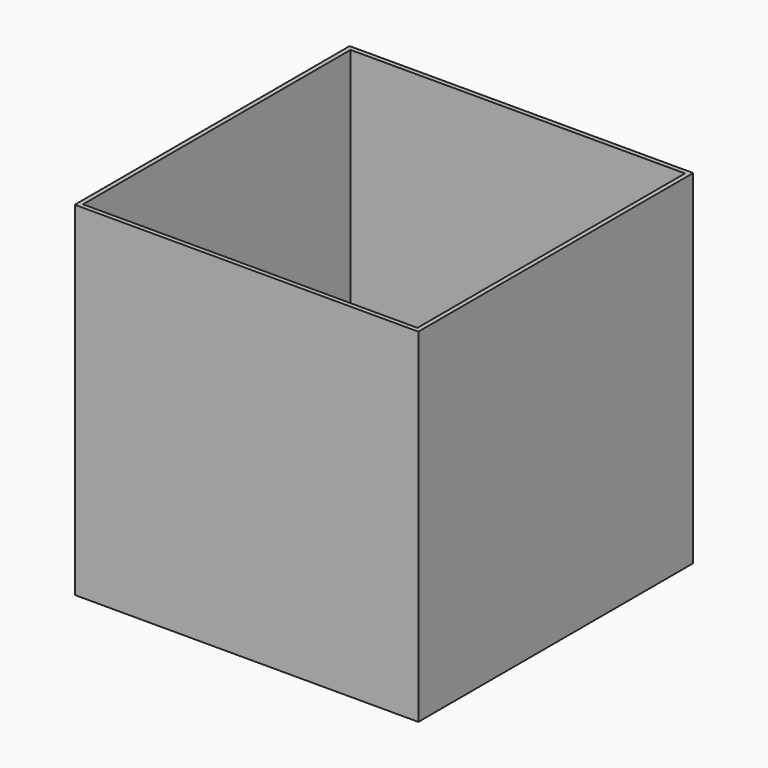
from build123d import *

# Parameters (mm, degrees)
SKETCH_W     = 30
SKETCH_H     = 30
SKETCH_W_2   = 29.2
SKETCH_H_2   = 29.2
PAD_DEPTH    = 30
SKETCH001_W  = 30
SKETCH001_H  = 30
PAD001_DEPTH = 0.6


with BuildPart() as part:
    # Sketch → Pad (new body)
    with BuildSketch(Plane.XY):
        Rectangle(SKETCH_W, SKETCH_H)
        Rectangle(SKETCH_W_2, SKETCH_H_2, mode=Mode.SUBTRACT)
    extrude(amount=PAD_DEPTH)

    # Sketch001 (on Face9 of Pad) → Pad001 (join)
    with BuildSketch(Plane(origin=(0, 0, 0), x_dir=(1, 0, 0), z_dir=(0, 0, -1))):
        Rectangle(SKETCH001_W, SKETCH001_H)
    extrude(amount=-PAD001_DEPTH)


solid = part.part
